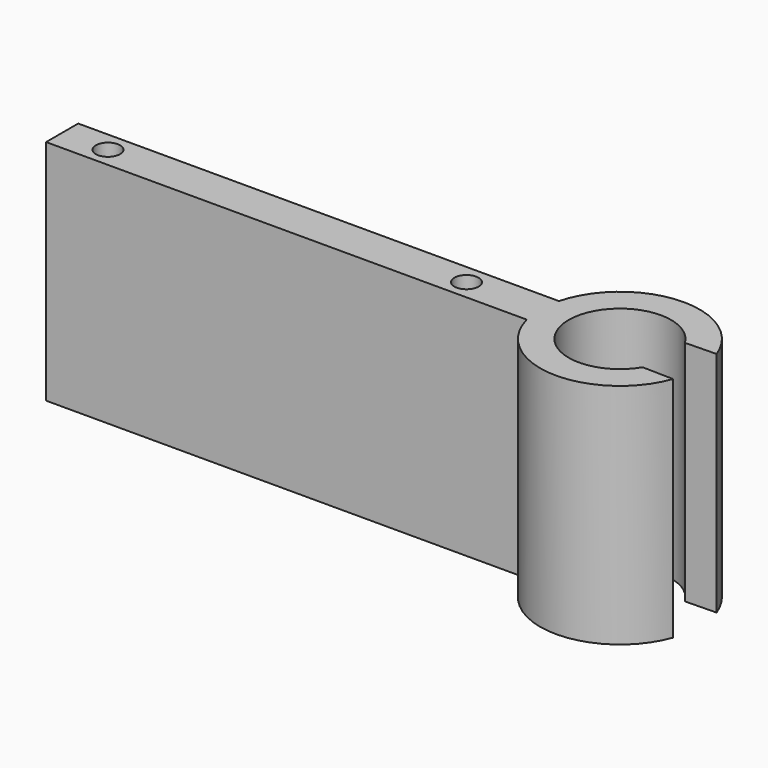
from build123d import *

# Parameters (mm, degrees)
F0_R     = 1.35
F1_DEPTH = 25.4


with BuildPart() as f1:
    # F0 (on Top) → F1 (new body)
    with BuildSketch(Plane.XY):
        with BuildLine():
            Line((-34.925, 2.240668), (-34.925, -2.240668))
            Line((-34.925, -2.240668), (18.702006, -2.240668))
            ThreePointArc((18.702006, -2.240668), (26.892817, -8.880439), (35.663454, -3.027929))
            Line((35.663454, -3.027929), (32.198582, -2.951963))
            ThreePointArc((32.198582, -2.951963), (21.59, 0), (32.198582, 2.951963))
            Line((32.198582, 2.951963), (35.663454, 3.027929))
            ThreePointArc((35.663454, 3.027929), (26.892817, 8.880439), (18.702006, 2.240668))
            Line((18.702006, 2.240668), (-34.925, 2.240668))
        make_face()
        with Locations((-29.815227, 0)):
            Circle(F0_R, mode=Mode.SUBTRACT)
        with Locations((10.184773, 0)):
            Circle(F0_R, mode=Mode.SUBTRACT)
    extrude(amount=F1_DEPTH)


solid = f1.part
